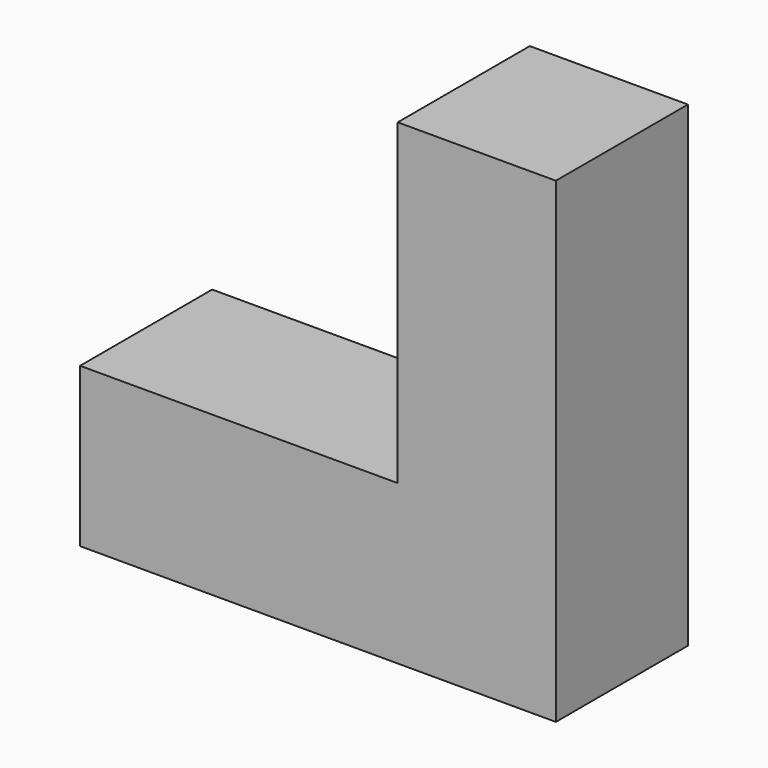
from build123d import *

# Parameters (mm, degrees)
F0_W     = 55.142552
F0_H     = 57.551987
F1_DEPTH = 55.372
F2_W     = 55.142552
F2_H     = 57.551987
F3_DEPTH = 55.372
F4_W     = 55.142552
F4_H     = 57.551987
F5_DEPTH = 55.372
F6_W     = 57.551987
F6_H     = 55.372
F7_DEPTH = 55.372
F8_W     = 57.551987
F8_H     = 55.372
F9_DEPTH = 55.372


with BuildPart() as f1:
    # F0 (on Top) → F1 (new body)
    with BuildSketch(Plane.XY):
        with Locations((27.571276, -28.775993)):
            Rectangle(F0_W, F0_H)
    extrude(amount=F1_DEPTH)

    # F2 (on face) → F3 (join)
    with BuildSketch(Plane.XY.offset(55.372)):
        with Locations((27.571276, -28.775993)):
            Rectangle(F2_W, F2_H)
    extrude(amount=F3_DEPTH)

    # F4 (on face) → F5 (join)
    with BuildSketch(Plane(origin=(0, 0, 0), x_dir=(1, 0, 0), z_dir=(0, 0, -1))):
        with Locations((27.571276, 28.775993)):
            Rectangle(F4_W, F4_H)
    extrude(amount=F5_DEPTH)

    # F6 (on face) → F7 (join)
    with BuildSketch(Plane(origin=(0, 0, 0), x_dir=(0, -1, 0), z_dir=(-1, 0, 0))):
        with Locations((28.775993, -27.686)):
            Rectangle(F6_W, F6_H)
    extrude(amount=F7_DEPTH)

    # F8 (on face) → F9 (join)
    with BuildSketch(Plane(origin=(-55.372, 0, 0), x_dir=(0, -1, 0), z_dir=(-1, 0, 0))):
        with Locations((28.775993, -27.686)):
            Rectangle(F8_W, F8_H)
    extrude(amount=F9_DEPTH)


solid = f1.part
